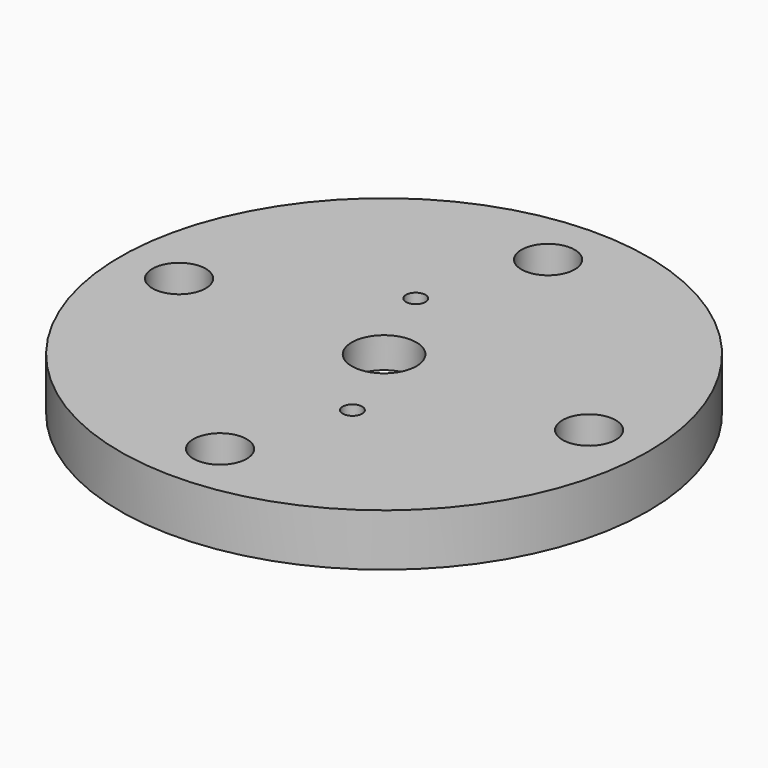
from build123d import *

# Parameters (mm, degrees)
F0_R     = 25.75
F0_R_2   = 2.6
F0_R_3   = 3.15
F0_R_4   = 0.95
F1_DEPTH = 5.1
F2_R     = 12.7
F3_DEPTH = 2.1


with BuildPart() as f1:
    # F0 (on Top) → F1 (new body)
    with BuildSketch(Plane.XY):
        Circle(F0_R)
        with Locations((0, -20)):
            Circle(F0_R_2, mode=Mode.SUBTRACT)
        with Locations((-20, 0)):
            Circle(F0_R_2, mode=Mode.SUBTRACT)
        Circle(F0_R_3, mode=Mode.SUBTRACT)
        with Locations((3.874167, -8.70152)):
            Circle(F0_R_4, mode=Mode.SUBTRACT)
        with Locations((20, 0)):
            Circle(F0_R_2, mode=Mode.SUBTRACT)
        with Locations((-3.874167, 8.70152)):
            Circle(F0_R_4, mode=Mode.SUBTRACT)
        with Locations((0, 20)):
            Circle(F0_R_2, mode=Mode.SUBTRACT)
    extrude(amount=F1_DEPTH)

    # F2 (on face) → F3 (cut)
    with BuildSketch(Plane(origin=(0, 0, 0), x_dir=(1, 0, 0), z_dir=(0, 0, -1))):
        Circle(F2_R)
    extrude(amount=-F3_DEPTH, mode=Mode.SUBTRACT)


solid = f1.part
